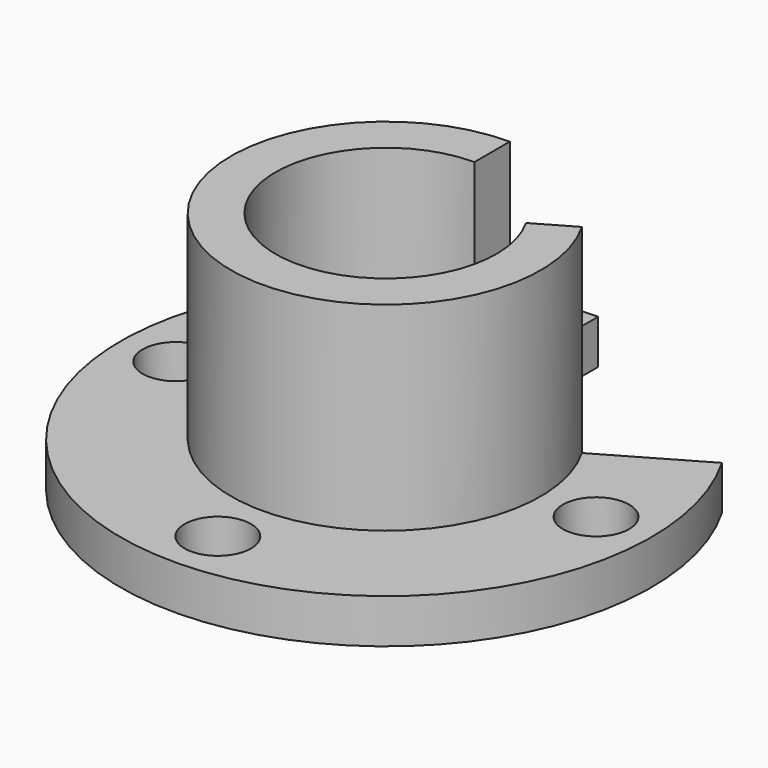
from build123d import *

# Parameters (mm, degrees)
F1_ANGLE = 300
F2_R     = 7.5
F3_DEPTH = 10.001


with BuildPart() as f1:
    # F0 (on Right) → F1 (revolve)
    with BuildSketch(Plane.YZ):
        Polygon((25, 55), (25, 0), (60, 0), (60, 10), (35, 10), (35, 55), align=None)
    revolve(axis=Axis((0, 0, 25.252745), (0, 0, 1)), revolution_arc=F1_ANGLE)

    # F2 (on face) → F3 (cut, through all)
    with BuildSketch(Plane.XY.offset(10)):
        with Locations((-47.5, 0)):
            Circle(F2_R)
        with Locations((47.5, 0)):
            Circle(F2_R)
        with BuildLine():
            Line((0, 40), (0, 55))
            ThreePointArc((0, 55), (-7.5, 47.5), (0, 40))
        make_face()
        with BuildLine():
            ThreePointArc((0, 40), (5.303301, 42.196699), (7.5, 47.5))
            ThreePointArc((7.5, 47.5), (5.303301, 52.803301), (0, 55))
            Line((0, 55), (0, 40))
        make_face()
        with Locations((0, -47.5)):
            Circle(F2_R)
    extrude(amount=-F3_DEPTH, mode=Mode.SUBTRACT)


solid = f1.part
